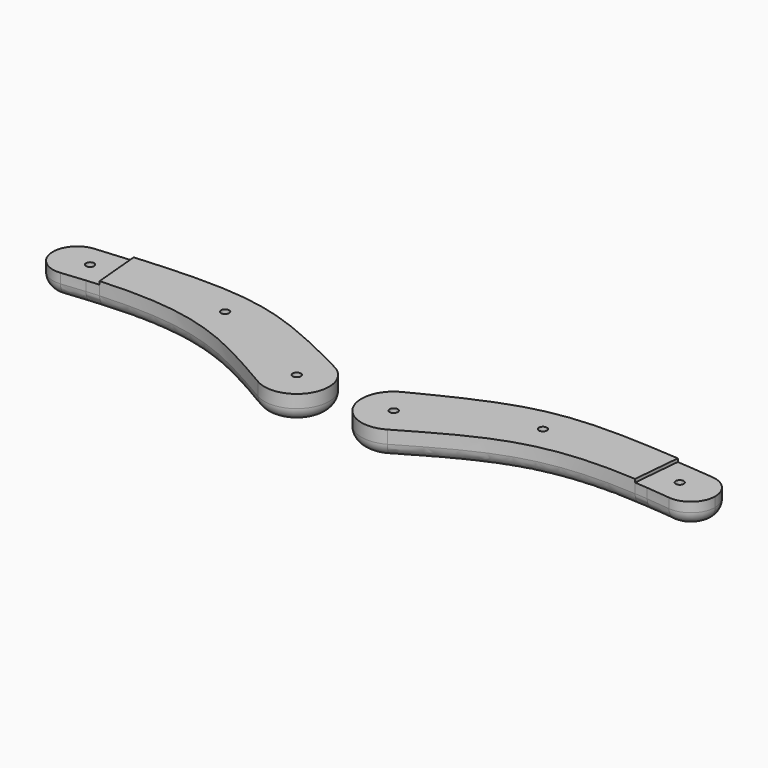
from build123d import *

# Parameters (mm, degrees)
F0_R     = 1.5875
F1_DEPTH = 10.16
F2_R     = 5.08
F3_DEPTH = 1.27
F5_SIZE  = 2.286
F6_R     = 1.5875
F7_DEPTH = 3.81
F8_SIZE  = 0.508


with BuildPart() as f1:
    # F0 (on Top) → F1 (new body)
    with BuildSketch(Plane.XY):
        with BuildLine():
            ThreePointArc((119.5892695943, 9.5842472034), (126.9991010342, 11.9496802144), (130.175, 19.05))
            ThreePointArc((130.175, 19.05), (127.6745035014, 25.4828823679), (121.4858712738, 28.538252959))
            ThreePointArc((121.4858712738, 28.538252959), (114.543825054, 26.3602840251), (111.164540248, 19.9169938256))
            ThreePointArc((111.164540248, 19.9169938256), (113.2677953902, 13.0309734924), (119.5892695943, 9.5842472034))
        make_face()
        with Locations((115.9072698447, 19.4834938573)):
            Circle(F0_R, mode=Mode.SUBTRACT)
        with BuildLine():
            ThreePointArc((111.164540248, 19.9169938256), (114.543825054, 26.3602840251), (121.4858712738, 28.538252959))
            add(Edge.make_bspline(
                [(112.0259266757, 29.3411720862), (115.0323540027, 29.0976524229), (118.1809969072, 28.8293971305), (121.4858712738, 28.538252959)],
                knots=[103.4645195413, 103.4645195413, 103.4645195413, 103.4645195413, 109.5587383344, 109.5587383344, 109.5587383344, 109.5587383344], degree=3))
            Line((112.0259266757, 29.3411720862), (111.164540248, 19.9169938256))
        make_face()
        with BuildLine():
            add(Edge.make_bspline(
                [(119.5892695943, 9.5842472034), (116.3486005922, 9.9473959375), (113.2580495253, 10.2497948636), (110.3031527032, 10.492803343)],
                knots=[0, 0, 0, 0, 6.3656505902, 6.3656505902, 6.3656505902, 6.3656505902], degree=3))
            ThreePointArc((119.5892695943, 9.5842472034), (113.2677953902, 13.0309734924), (111.164540248, 19.9169938256))
            Line((111.164540248, 19.9169938256), (110.3031527032, 10.492803343))
        make_face()
        with BuildLine():
            Line((110.3031527032, 10.492803343), (111.164540248, 19.9169938256))
            Line((111.164540248, 19.9169938256), (112.0259266757, 29.3411720862))
            add(Edge.make_bspline(
                [(106.9459266757, 29.7387904307), (108.5934309477, 29.6147758635), (110.2858584526, 29.4821170623), (112.0259266757, 29.3411720862)],
                knots=[99.9372909363, 99.9372909363, 99.9372909363, 99.9372909363, 103.4645195413, 103.4645195413, 103.4645195413, 103.4645195413], degree=3))
            Line((106.9459266757, 29.7387904307), (105.2364159305, 10.8596527355))
            add(Edge.make_bspline(
                [(110.3031527032, 10.492803343), (108.5684648156, 10.6354627627), (106.8805279855, 10.7576542186), (105.2364159305, 10.8596527355)],
                knots=[6.3656505902, 6.3656505902, 6.3656505902, 6.3656505902, 10.1026396088, 10.1026396088, 10.1026396088, 10.1026396088], degree=3))
        make_face()
        with BuildLine():
            Line((105.2364159305, 10.8596527355), (106.9459266757, 29.7387904307))
            add(Edge.make_bspline(
                [(13.2889025618, 11.318116288), (49.650905535, 29.8269420365), (60.2670373312, 33.2525065151), (106.9459266757, 29.7387904307)],
                knots=[0, 0, 0, 0, 99.9372909363, 99.9372909363, 99.9372909363, 99.9372909363], degree=3))
            ThreePointArc((13.2889025618, 11.318116288), (25.6879237166, 10.8271865566), (31.75, 0))
            ThreePointArc((31.75, 0), (30.0532832457, -6.341747221), (25.4164948322, -10.9889828261))
            add(Edge.make_bspline(
                [(105.2364159305, 10.8596527355), (67.2720612747, 13.2149106132), (52.6750270493, 4.8033163558), (25.4164948322, -10.9889828261)],
                knots=[10.1026396088, 10.1026396088, 10.1026396088, 10.1026396088, 96.3938239735, 96.3938239735, 96.3938239735, 96.3938239735], degree=3))
        make_face()
        with Locations((62.4653042734, 19.05)):
            Circle(F0_R, mode=Mode.SUBTRACT)
        with BuildLine():
            ThreePointArc((31.75, 0), (25.6879237166, 10.8271865566), (13.2889025618, 11.318116288))
            ThreePointArc((13.2889025618, 11.318116288), (7.8923436949, -6.066028831), (25.4164948322, -10.9889828261))
            ThreePointArc((25.4164948322, -10.9889828261), (30.0532832457, -6.341747221), (31.75, 0))
        make_face()
        with Locations((19.05, 0)):
            Circle(F0_R, mode=Mode.SUBTRACT)
    extrude(amount=-F1_DEPTH)

    # F2
    f2_edges = [f1.edges().sort_by_distance(p)[0] for p in [
        (70.338943, 9.115537, -10.16),
    ]]
    fillet(f2_edges, radius=F2_R)

    # F0 (on Top) → F3 (cut)
    with BuildSketch(Plane.XY):
        with BuildLine():
            ThreePointArc((119.5892695943, 9.5842472034), (126.9991010342, 11.9496802144), (130.175, 19.05))
            ThreePointArc((130.175, 19.05), (127.6745035014, 25.4828823679), (121.4858712738, 28.538252959))
            ThreePointArc((121.4858712738, 28.538252959), (114.543825054, 26.3602840251), (111.164540248, 19.9169938256))
            ThreePointArc((111.164540248, 19.9169938256), (113.2677953902, 13.0309734924), (119.5892695943, 9.5842472034))
        make_face()
        with Locations((115.9072698447, 19.4834938573)):
            Circle(F0_R, mode=Mode.SUBTRACT)
        with BuildLine():
            ThreePointArc((111.164540248, 19.9169938256), (114.543825054, 26.3602840251), (121.4858712738, 28.538252959))
            add(Edge.make_bspline(
                [(112.0259266757, 29.3411720862), (115.0323540027, 29.0976524229), (118.1809969072, 28.8293971305), (121.4858712738, 28.538252959)],
                knots=[103.4645195413, 103.4645195413, 103.4645195413, 103.4645195413, 109.5587383344, 109.5587383344, 109.5587383344, 109.5587383344], degree=3))
            Line((112.0259266757, 29.3411720862), (111.164540248, 19.9169938256))
        make_face()
        with BuildLine():
            add(Edge.make_bspline(
                [(119.5892695943, 9.5842472034), (116.3486005922, 9.9473959375), (113.2580495253, 10.2497948636), (110.3031527032, 10.492803343)],
                knots=[0, 0, 0, 0, 6.3656505902, 6.3656505902, 6.3656505902, 6.3656505902], degree=3))
            ThreePointArc((119.5892695943, 9.5842472034), (113.2677953902, 13.0309734924), (111.164540248, 19.9169938256))
            Line((111.164540248, 19.9169938256), (110.3031527032, 10.492803343))
        make_face()
        with BuildLine():
            Line((110.3031527032, 10.492803343), (111.164540248, 19.9169938256))
            Line((111.164540248, 19.9169938256), (112.0259266757, 29.3411720862))
            add(Edge.make_bspline(
                [(106.9459266757, 29.7387904307), (108.5934309477, 29.6147758635), (110.2858584526, 29.4821170623), (112.0259266757, 29.3411720862)],
                knots=[99.9372909363, 99.9372909363, 99.9372909363, 99.9372909363, 103.4645195413, 103.4645195413, 103.4645195413, 103.4645195413], degree=3))
            Line((106.9459266757, 29.7387904307), (105.2364159305, 10.8596527355))
            add(Edge.make_bspline(
                [(110.3031527032, 10.492803343), (108.5684648156, 10.6354627627), (106.8805279855, 10.7576542186), (105.2364159305, 10.8596527355)],
                knots=[6.3656505902, 6.3656505902, 6.3656505902, 6.3656505902, 10.1026396088, 10.1026396088, 10.1026396088, 10.1026396088], degree=3))
        make_face()
    extrude(amount=-F3_DEPTH, mode=Mode.SUBTRACT)


with BuildPart() as f4_1:
    # F4: instance of F1
    add(f1.part.mirror(Plane.YZ))

    # F6 (on face) → F7 (cut)
    with BuildSketch(Plane(origin=(0, 0, -10.16), x_dir=(1, 0, 0), z_dir=(0, 0, -1))):
        Polygon((-112.6052698447, -21.3899044462), (-112.6052698447, -17.5770832684), (-115.9072698447, -15.6706726796), (-119.2092698447, -17.5770832684), (-119.2092698447, -21.3899044462), (-115.9072698447, -23.296315035), align=None)
        with Locations((-115.9072698447, -19.4834938573)):
            Circle(F6_R, mode=Mode.SUBTRACT)
        Polygon((-59.1633042734, -20.9564105889), (-59.1633042734, -17.1435894111), (-62.4653042734, -15.2371788223), (-65.7673042734, -17.1435894111), (-65.7673042734, -20.9564105889), (-62.4653042734, -22.8628211777), align=None)
        with Locations((-62.4653042734, -19.05)):
            Circle(F6_R, mode=Mode.SUBTRACT)
        Polygon((-15.748, -1.9064105889), (-15.748, 1.9064105889), (-19.05, 3.8128211777), (-22.352, 1.9064105889), (-22.352, -1.9064105889), (-19.05, -3.8128211777), align=None)
        with Locations((-19.05, 0)):
            Circle(F6_R, mode=Mode.SUBTRACT)
    extrude(amount=-F7_DEPTH, mode=Mode.SUBTRACT)

    # F8
    f8_edges = [f4_1.edges().sort_by_distance(p)[0] for p in [
        (-125.072913, 18.607428, -10.16),
        (-69.296107, 14.087361, -10.16),
        (-66.572993, 25.247488, -10.16),
        (-12.355406, -3.639617, -10.16),
        (-17.399, 2.859616, -10.16),
        (-15.748, 0, -10.16),
        (-17.399, -2.859616, -10.16),
        (-20.701, -2.859616, -10.16),
        (-22.352, 0, -10.16),
        (-20.701, 2.859616, -10.16),
        (-59.163304, 19.05, -10.16),
        (-60.814304, 16.190384, -10.16),
        (-64.116304, 16.190384, -10.16),
        (-65.767304, 19.05, -10.16),
        (-64.116304, 21.909616, -10.16),
        (-60.814304, 21.909616, -10.16),
        (-114.25627, 22.34311, -10.16),
        (-112.60527, 19.483494, -10.16),
        (-114.25627, 16.623878, -10.16),
        (-117.55827, 16.623878, -10.16),
        (-119.20927, 19.483494, -10.16),
        (-117.55827, 22.34311, -10.16),
    ]]
    chamfer(f8_edges, length=F8_SIZE)


with BuildPart() as f1_1:
    add(f1.part)

    # F5
    f5_edges = [f1_1.edges().sort_by_distance(p)[0] for p in [
        (17.4625, 0, -10.16),
        (60.877804, 19.05, -10.16),
        (114.31977, 19.483494, -10.16),
    ]]
    chamfer(f5_edges, length=F5_SIZE)


solid = Compound([f4_1.part, f1_1.part])
